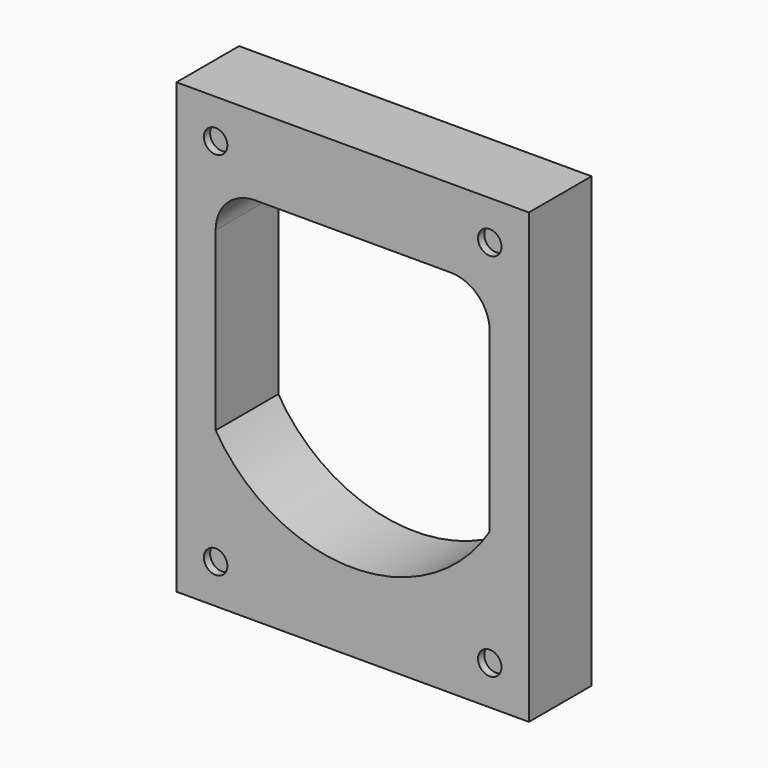
from build123d import *

# Parameters (mm, degrees)
F0_W     = 90
F0_H     = 114.526905
F0_R     = 3
F1_DEPTH = 20
F2_R     = 3
F3_DEPTH = 2


with BuildPart() as f1:
    # F0 (on Front) → F1 (new body)
    with BuildSketch(Plane.XZ):
        with Locations((10.317164, -11.026004)):
            Rectangle(F0_W, F0_H)
        with Locations((-24.682836, -58.289457)):
            Circle(F0_R, mode=Mode.SUBTRACT)
        with Locations((45.317164, -58.289457)):
            Circle(F0_R, mode=Mode.SUBTRACT)
        with Locations((-24.682836, 36.237448)):
            Circle(F0_R, mode=Mode.SUBTRACT)
        with BuildLine():
            ThreePointArc((-24.682836, 16.237448), (-21.753904, 23.308516), (-14.682836, 26.237448))
            Line((-14.682836, 26.237448), (35.317164, 26.237448))
            ThreePointArc((35.317164, 26.237448), (42.388231, 23.308516), (45.317164, 16.237448))
            Line((45.317164, 16.237448), (45.317164, -28.762552))
            ThreePointArc((45.317164, -28.762552), (10.317164, -48.289457), (-24.682836, -28.762552))
            Line((-24.682836, -28.762552), (-24.682836, 16.237448))
        make_face(mode=Mode.SUBTRACT)
        with Locations((45.317164, 36.237448)):
            Circle(F0_R, mode=Mode.SUBTRACT)
        with Locations((45.317164, -58.289457)):
            Circle(F0_R)
        with Locations((-24.682836, -58.289457)):
            Circle(F0_R)
        with Locations((45.317164, 36.237448)):
            Circle(F0_R)
        with Locations((-24.682836, 36.237448)):
            Circle(F0_R)
    extrude(amount=F1_DEPTH)

    # F2 (on face) → F3 (cut)
    with BuildSketch(Plane.XZ.offset(20)):
        with Locations((-24.682836, 36.237448)):
            Circle(F2_R)
        with Locations((45.317164, 36.237448)):
            Circle(F2_R)
        with Locations((-24.682836, -58.289457)):
            Circle(F2_R)
        with Locations((45.317164, -58.289457)):
            Circle(F2_R)
    extrude(amount=-F3_DEPTH, mode=Mode.SUBTRACT)


solid = f1.part
